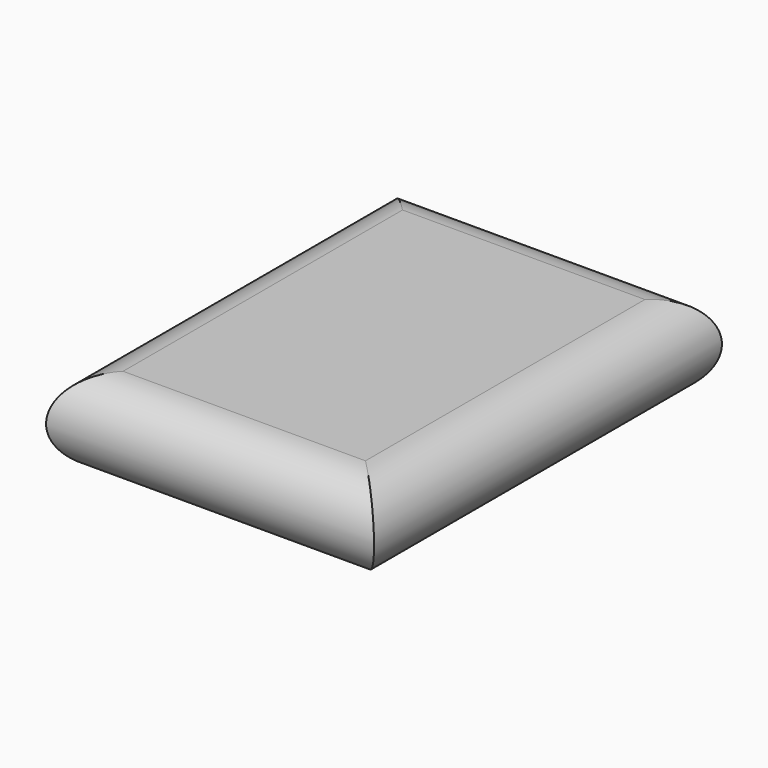
from build123d import *

# Parameters (mm, degrees)
F1_DEPTH = 610
F3_DEPTH = 2500


with BuildPart() as f1:
    # F0 (on Front) → F1 (new body)
    with BuildSketch(Plane.XZ):
        with BuildLine():
            ThreePointArc((0, 120), (-60, 60), (0, 0))
            Line((0, 0), (340, 0))
            ThreePointArc((340, 0), (400, 60), (340, 120))
            Line((340, 120), (0, 120))
        make_face()
    extrude(amount=F1_DEPTH)

    # F2 (on Right) → F3 (cut, symmetric)
    with BuildSketch(Plane.YZ):
        with BuildLine():
            ThreePointArc((-60, 120), (0, 60), (-60, 0))
            Line((-60, 0), (-61.062664, -34.820456))
            Line((-61.062664, -34.820456), (-511.019111, -48.782665))
            Line((-511.019111, -48.782665), (-550, 0))
            ThreePointArc((-550, 0), (-610, 60), (-550, 120))
            Line((-550, 120), (-550, 196.35497))
            Line((-550, 196.35497), (-774.3119, 196.35497))
            Line((-774.3119, 196.35497), (-774.3119, -111.258171))
            Line((-774.3119, -111.258171), (-538.922429, -111.258171))
            Line((-538.922429, -111.258171), (85.435808, -111.258171))
            Line((85.435808, -111.258171), (85.435808, 155.19315))
            Line((85.435808, 155.19315), (-27.929869, 197.026014))
            Line((-27.929869, 197.026014), (-60, 120))
        make_face()
    extrude(amount=F3_DEPTH, both=True, mode=Mode.SUBTRACT)


solid = f1.part
